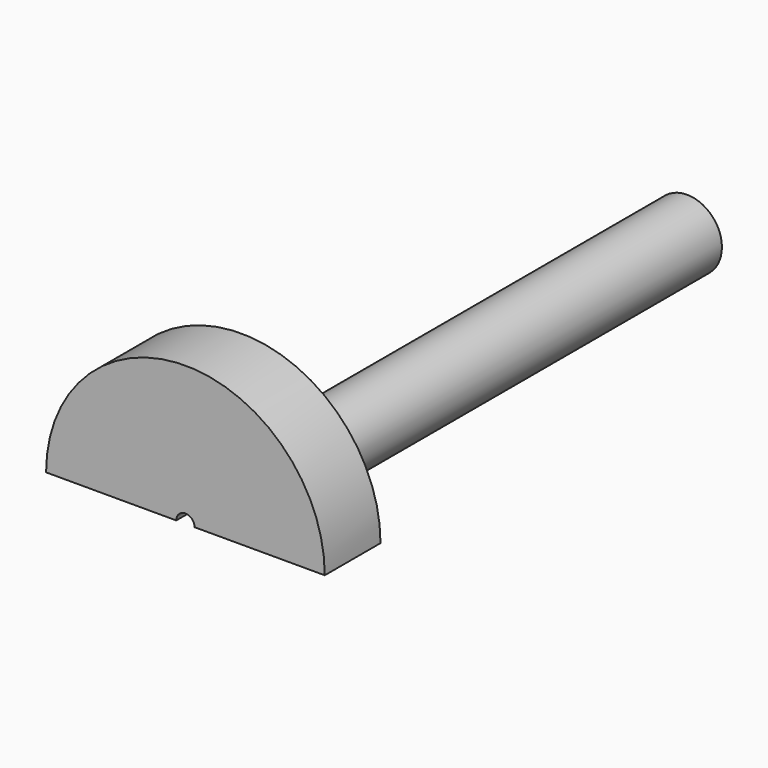
from build123d import *

# Parameters (mm, degrees)
F0_R     = 12.7
F1_DEPTH = 177.8
F2_R     = 3.338964
F3_DEPTH = 25.4
F5_DEPTH = 25.4


with BuildPart() as f1:
    # F0 (on Front) → F1 (new body)
    with BuildSketch(Plane.XZ):
        Circle(F0_R)
    extrude(amount=F1_DEPTH)

    # F2 (on face) → F3 (join)
    with BuildSketch(Plane.XZ.offset(177.8)):
        Circle(F2_R)
    extrude(amount=F3_DEPTH)


with BuildPart() as f5:
    # F4 (on face) → F5 (new body)
    with BuildSketch(Plane.XZ.offset(203.2)):
        with BuildLine():
            Line((3.338964, 0), (50.8, 0))
            ThreePointArc((50.8, 0), (0, 50.8), (-50.8, 0))
            Line((-50.8, 0), (-3.338964, 0))
            ThreePointArc((-3.338964, 0), (0, 3.338964), (3.338964, 0))
        make_face()
    extrude(amount=F5_DEPTH)


solid = Compound([f1.part, f5.part])
